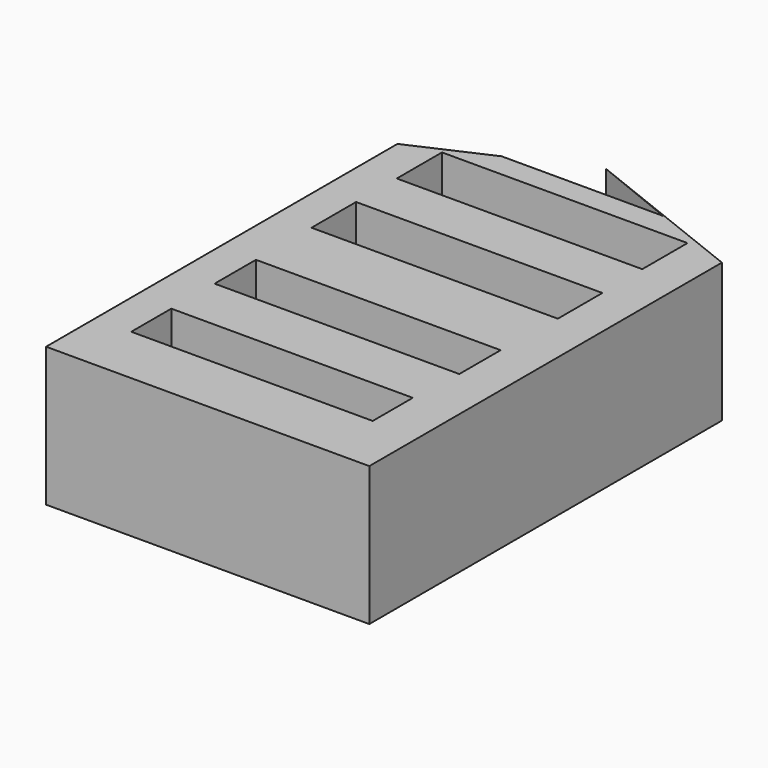
from build123d import *

# Parameters (mm, degrees)
F0_W      = 129.2205303907
F0_H      = 41.7168587446
F1_DEPTH  = 152.4
F2_W      = 73.6317485571
F2_H      = 16.954690218
F2_W_2    = 73.8739818335
F2_H_2    = 16.7124718428
F3_DEPTH  = 25.4
F5_DEPTH  = 41.7178587446
F6_W      = 73.389545083
F6_H      = 15.5014246702
F7_DEPTH  = 25.4
F8_W      = 72.4207013845
F8_H      = 15.017002821
F9_DEPTH  = 25.4
F11_DEPTH = 75.7919326425
F13_DEPTH = 105.4396703839
F15_DEPTH = 137.5292986631


with BuildPart() as f1:
    # F0 (on Front) → F1 (new body)
    with BuildSketch(Plane.XZ):
        with Locations((-0.3052428365, -6.4101442695)):
            Rectangle(F0_W, F0_H)
    extrude(amount=F1_DEPTH)

    # F2 (on face) → F3 (cut)
    with BuildSketch(Plane.XY.offset(14.4482851028)):
        with Locations((1.6954615712, -25.9895175695)):
            Rectangle(F2_W, F2_H)
        with Locations((1.8165782094, -58.0823048949)):
            Rectangle(F2_W_2, F2_H_2)
    extrude(amount=-F3_DEPTH, mode=Mode.SUBTRACT)

    # F4 (on face) → F5 (cut, through all)
    with BuildSketch(Plane.XY.offset(14.4482851028)):
        Polygon((64.3050223589, 0), (0, 0), (64.3050223589, -25.4777166992), align=None)
        Polygon((-64.9155080318, 0), (-64.9155080318, -29.2058624327), (0, 0), align=None)
    extrude(amount=-F5_DEPTH, mode=Mode.SUBTRACT)

    # F6 (on face) → F7 (cut)
    with BuildSketch(Plane.XY.offset(14.4482851028)):
        with Locations((1.5743598342, -95.0192883611)):
            Rectangle(F6_W, F6_H)
    extrude(amount=-F7_DEPTH, mode=Mode.SUBTRACT)

    # F8 (on face) → F9 (cut)
    with BuildSketch(Plane.XY.offset(14.4482851028)):
        with Locations((1.0899379849, -126.5065521002)):
            Rectangle(F8_W, F8_H)
    extrude(amount=-F9_DEPTH, mode=Mode.SUBTRACT)

    # F10 (on face) → F11 (cut)
    with BuildSketch(Plane.XY.offset(14.4482851028)):
        Polygon((64.3050223589, -25.4777166992), (50.9865237329, -20.2009137), (50.9865237329, -152.4), align=None)
        Polygon((64.3050223589, -25.4777166992), (50.9865237329, -152.4), (64.3050223589, -152.4), align=None)
    extrude(amount=-F11_DEPTH, mode=Mode.SUBTRACT)

    # F12 (on face) → F13 (cut)
    with BuildSketch(Plane.XY.offset(14.4482851028)):
        Polygon((-45.9601895189, -152.4), (-45.9601895189, -20.677755026), (-64.9155080318, -29.2058624327), (-64.9155080318, -152.4), align=None)
    extrude(amount=-F13_DEPTH, mode=Mode.SUBTRACT)

    # F14 (on face) → F15 (cut)
    with BuildSketch(Plane.XY.offset(14.4482851028)):
        Polygon((0, 0), (-22.9800947595, -10.338877513), (25.4932618665, -10.338877513), align=None)
    extrude(amount=-F15_DEPTH, mode=Mode.SUBTRACT)


solid = f1.part
